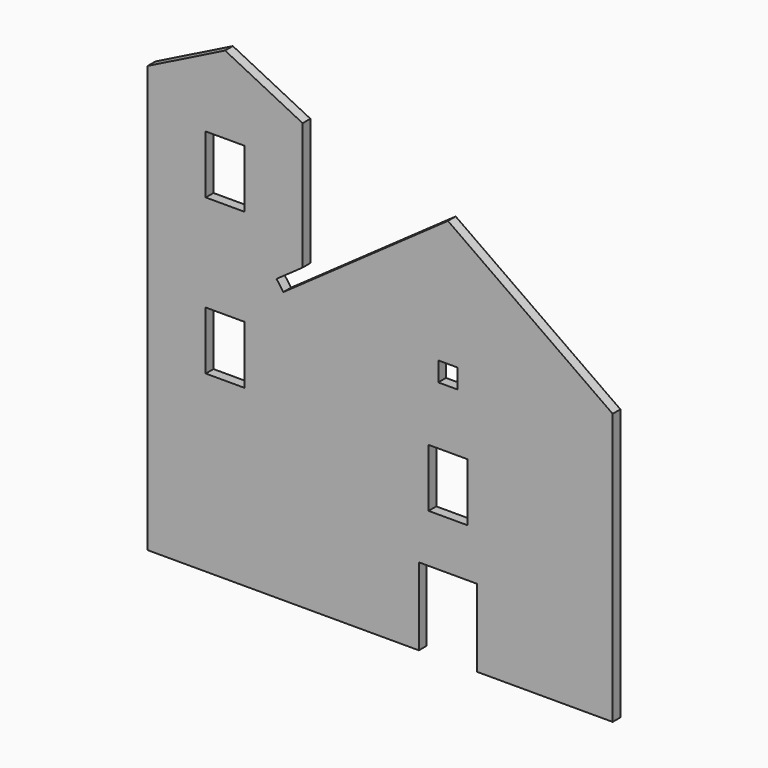
from build123d import *

# Parameters (mm, degrees)
F1_DEPTH = 6.35
F2_W     = 25.4
F2_H     = 38.1
F2_W_2   = 38.1
F2_H_2   = 50.8
F2_W_3   = 12.7
F2_H_3   = 12.7
F3_DEPTH = 6.351


with BuildPart() as f1:
    # F0 (on Front) → F1 (new body)
    with BuildSketch(Plane.XZ):
        Polygon((0, 279.4), (0, 0), (304.8, 0), (304.8, 177.8), (196.85, 254), (88.9, 177.8), (84.505674, 184.025295), (101.6, 196.091878), (101.6, 279.4), (50.8, 304.8), align=None)
    extrude(amount=F1_DEPTH)

    # F2 (on face) → F3 (cut, through all)
    with BuildSketch(Plane.XZ.offset(6.35)):
        with Locations((50.8, 234.95)):
            Rectangle(F2_W, F2_H)
        with Locations((50.8, 133.35)):
            Rectangle(F2_W, F2_H)
        with Locations((196.85, 101.6)):
            Rectangle(F2_W, F2_H)
        with Locations((196.85, 25.4)):
            Rectangle(F2_W_2, F2_H_2)
        with Locations((196.85, 165.1)):
            Rectangle(F2_W_3, F2_H_3)
    extrude(amount=-F3_DEPTH, mode=Mode.SUBTRACT)


solid = f1.part
